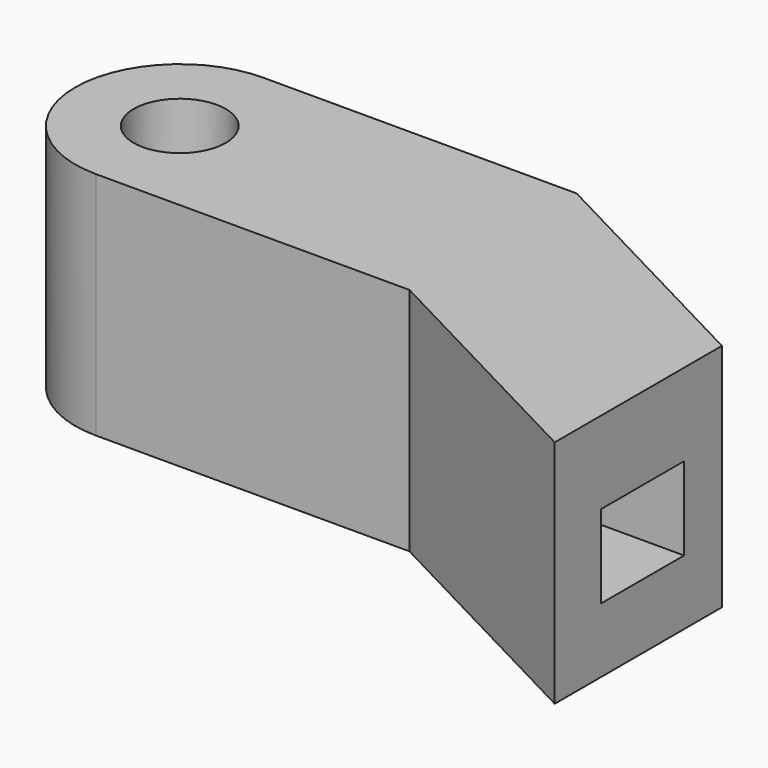
from build123d import *

# Parameters (mm, degrees)
F0_R     = 5.08
F1_DEPTH = 25.4
F2_W     = 11.43
F2_H     = 9.162156
F3_DEPTH = 11.868492


with BuildPart() as f1:
    # F0 (on Top) → F1 (new body)
    with BuildSketch(Plane.XY):
        with BuildLine():
            ThreePointArc((-34.581305, 12.947039), (-46.111623, 1.416721), (-34.581305, -10.113596))
            Line((-34.581305, -10.113596), (0, -10.113596))
            Line((0, -10.113596), (27.53824, -24.503519))
            Line((27.53824, -24.503519), (27.53824, -1.442884))
            Line((27.53824, -1.442884), (0, 12.947039))
            Line((0, 12.947039), (-34.581305, 12.947039))
        make_face()
        with Locations((-34.581305, 1.416721)):
            Circle(F0_R, mode=Mode.SUBTRACT)
    extrude(amount=F1_DEPTH)

    # F2 (on face) → F3 (cut)
    with BuildSketch(Plane.YZ.offset(27.53824)):
        with Locations((-12.378044, 11.735599)):
            Rectangle(F2_W, F2_H)
    extrude(amount=-F3_DEPTH, mode=Mode.SUBTRACT)


solid = f1.part
